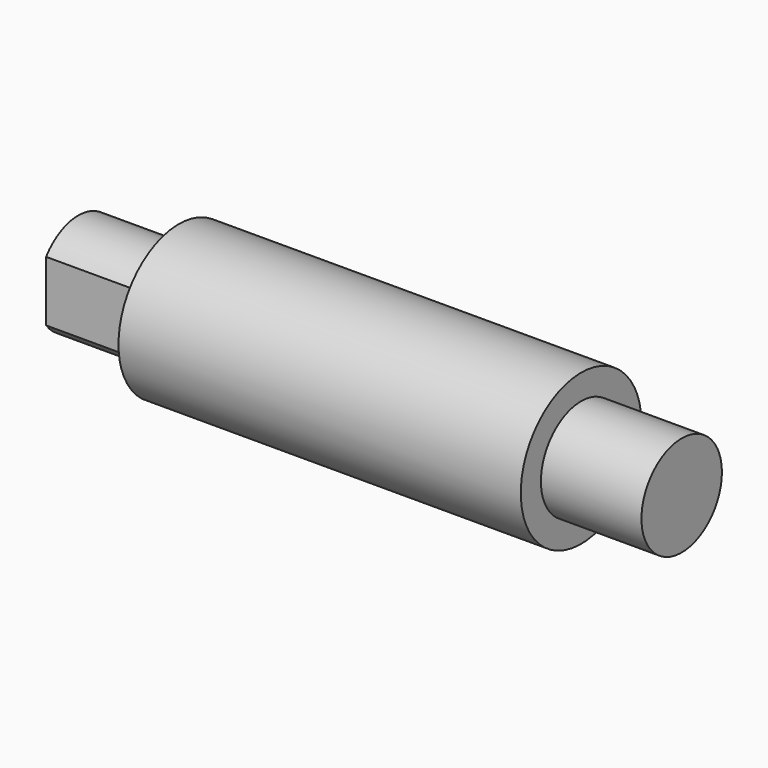
from build123d import *

# Parameters (mm, degrees)
F0_R          = 5
F1_DEPTH      = 50
F1_DEPTH_BACK = 10
F2_R          = 7.5
F3_DEPTH      = 40
F5_DEPTH      = 10


with BuildPart() as f1:
    # F0 (on Right) → F1 (new body, two sides)
    with BuildSketch(Plane.YZ) as f1_sk:
        Circle(F0_R)
    extrude(amount=F1_DEPTH)
    extrude(f1_sk.sketch, amount=-F1_DEPTH_BACK)

    # F2 (on Right) → F3 (join)
    with BuildSketch(Plane.YZ):
        Circle(F2_R)
    extrude(amount=F3_DEPTH)

    # F4 (on face) → F5 (cut, through all)
    with BuildSketch(Plane(origin=(-10, 0, 0), x_dir=(0, -1, 0), z_dir=(-1, 0, 0))):
        with BuildLine():
            Line((-4, -3), (-4, 3))
            ThreePointArc((-4, 3), (-5, 0), (-4, -3))
        make_face()
        with BuildLine():
            ThreePointArc((4, -3), (5, 0), (4, 3))
            Line((4, 3), (4, -3))
        make_face()
    extrude(amount=-F5_DEPTH, mode=Mode.SUBTRACT)


solid = f1.part
